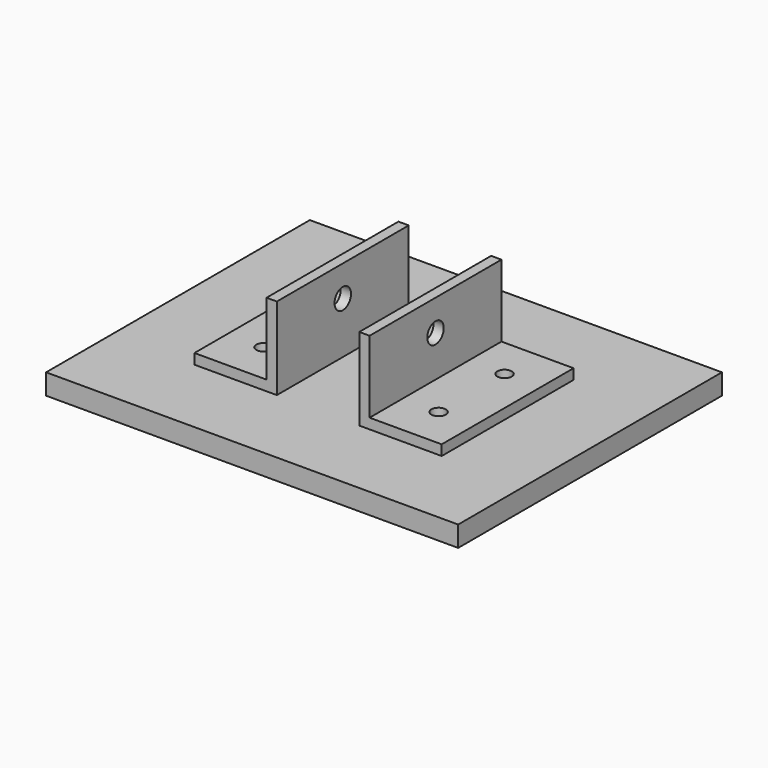
from build123d import *

# Parameters (mm, degrees)
F0_W      = 254
F0_H      = 203.2
F1_DEPTH  = 12.7
F2_R      = 4.445
F3_DEPTH  = 25.4
F4_W      = 50.8
F4_H      = 101.6
F5_DEPTH  = 6.35
F6_W      = 6.35
F6_H      = 101.6
F7_DEPTH  = 44.45
F8_R      = 4.445
F9_DEPTH  = 25.4
F10_R     = 6.35
F11_DEPTH = 25.4


with BuildPart() as f1:
    # F0 (on Top) → F1 (new body)
    with BuildSketch(Plane.XY):
        Rectangle(F0_W, F0_H)
    extrude(amount=F1_DEPTH)

    # F2 (on face) → F3 (cut)
    with BuildSketch(Plane.XY.offset(12.7)):
        with Locations((-53.975, 25.4)):
            Circle(F2_R)
        with Locations((-53.975, -25.4)):
            Circle(F2_R)
        with Locations((53.975, -25.4)):
            Circle(F2_R)
        with Locations((53.975, 25.4)):
            Circle(F2_R)
    extrude(amount=-F3_DEPTH, mode=Mode.SUBTRACT)

    # F4 (on face) → F5 (join)
    with BuildSketch(Plane.XY.offset(12.7)):
        with Locations((-50.8, 0)):
            Rectangle(F4_W, F4_H)
    extrude(amount=F5_DEPTH)

    # F6 (on face) → F7 (join)
    with BuildSketch(Plane.XY.offset(19.05)):
        with Locations((-28.575, 0)):
            Rectangle(F6_W, F6_H)
    extrude(amount=F7_DEPTH)

    # F8 (on face) → F9 (cut)
    with BuildSketch(Plane.XY.offset(19.05)):
        with Locations((-53.975, 25.4)):
            Circle(F8_R)
        with Locations((-53.975, -25.4)):
            Circle(F8_R)
    extrude(amount=-F9_DEPTH, mode=Mode.SUBTRACT)

    # F10 (on face) → F11 (cut)
    with BuildSketch(Plane(origin=(-31.75, 0, 0), x_dir=(0, -1, 0), z_dir=(-1, 0, 0))):
        with Locations((0, 44.45)):
            Circle(F10_R)
    extrude(amount=-F11_DEPTH, mode=Mode.SUBTRACT)

    # F12: F1 across plane


with BuildPart() as f1_1:
    add(f1.part)
    add(f1.part.mirror(Plane.YZ))


solid = f1_1.part
